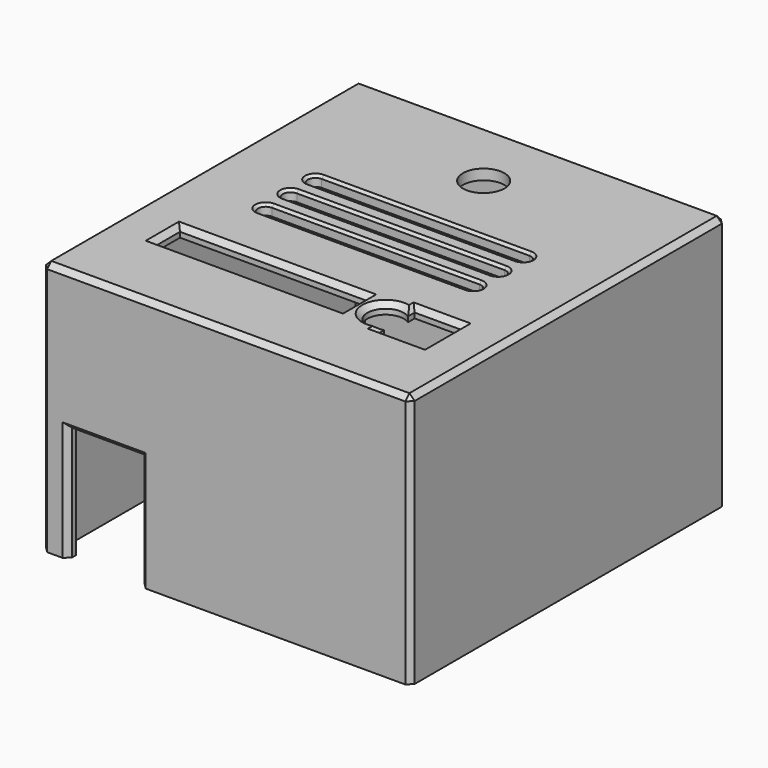
from build123d import *

# Parameters (mm, degrees)
SKETCH_W        = 71
SKETCH_H        = 76
PAD_DEPTH       = 49
SKETCH001_W     = 67
SKETCH001_H     = 72
POCKET_DEPTH    = 47
SKETCH002_W     = 14
SKETCH002_H     = 22
POCKET001_DEPTH = 2
SKETCH003_R     = 4
SKETCH003_W     = 36
SKETCH003_H     = 6
POCKET002_DEPTH = 49.001
CHAMFER_SIZE    = 1
POCKET003_DEPTH = 49.001
CHAMFER001_SIZE = 0.5


with BuildPart() as part:
    # Sketch → Pad (new body)
    with BuildSketch(Plane.XY):
        Rectangle(SKETCH_W, SKETCH_H)
    extrude(amount=PAD_DEPTH)

    # Sketch001 (on Face5 of Pad) → Pocket (cut)
    with BuildSketch(Plane(origin=(0, 0, 0), x_dir=(1, 0, 0), z_dir=(0, 0, -1))):
        Rectangle(SKETCH001_W, SKETCH001_H)
    extrude(amount=-POCKET_DEPTH, mode=Mode.SUBTRACT)

    # Sketch002 (on Face6 of Pocket) → Pocket001 (cut)
    with BuildSketch(Plane.XZ.offset(38)):
        with Locations((-23.5, 11)):
            Rectangle(SKETCH002_W, SKETCH002_H)
    extrude(amount=-POCKET001_DEPTH, mode=Mode.SUBTRACT)

    # Sketch003 (on Face4 of Pocket001) → Pocket002 (cut, through all)
    with BuildSketch(Plane.XY.offset(49)):
        with Locations((0, 24)):
            Circle(SKETCH003_R)
        with Locations((-8.5, -19)):
            Rectangle(SKETCH003_W, SKETCH003_H)
        with BuildLine():
            Line((26.5, -23.5), (17.5, -23.5))
            Line((17.5, -23.5), (17.5, -21.872281))
            ThreePointArc((17.5, -16.127719), (12, -19), (17.5, -21.872281))
            Line((17.5, -14.5), (17.5, -16.127719))
            Line((17.5, -14.5), (26.5, -14.5))
            Line((26.5, -14.5), (26.5, -23.5))
        make_face()
    extrude(amount=-POCKET002_DEPTH, mode=Mode.SUBTRACT)

    # Chamfer
    chamfer_edges = [part.edges().sort_by_distance(p)[0] for p in [
        (22, -23.5, 49),
        (12, -19, 49),
        (17.5, -22.686141, 49),
        (17.5, -15.313859, 49),
        (22, -14.5, 49),
        (26.5, -19, 49),
        (9.5, -19, 49),
        (-8.5, -22, 49),
        (-8.5, -16, 49),
        (-26.5, -19, 49),
        (0, 38, 49),
        (35.5, 0, 49),
        (0, -38, 49),
        (-35.5, 0, 49),
        (0, -36, 47),
        (33.5, 0, 47),
        (-33.5, 0, 47),
        (0, 36, 47),
        (-35.5, -38, 24.5),
        (-35.5, 38, 24.5),
        (35.5, -38, 24.5),
        (35.5, 38, 24.5),
        (33.5, -36, 23.5),
        (33.5, 36, 23.5),
        (-33.5, 36, 23.5),
        (-33.5, -36, 23.5),
        (-23.5, -38, 22),
        (-30.5, -38, 11),
        (-16.5, -38, 11),
    ]]
    chamfer(chamfer_edges, length=CHAMFER_SIZE)

    # Sketch004 (on Face25 of Chamfer) → Pocket003 (cut, through all)
    with BuildSketch(Plane.XY.offset(49)):
        with BuildLine():
            ThreePointArc((-20, 10), (-21.5, 8.5), (-20, 7))
            Line((-20, 7), (20, 7))
            ThreePointArc((20, 7), (21.5, 8.5), (20, 10))
            Line((-20, 10), (20, 10))
        make_face()
        with BuildLine():
            ThreePointArc((-20, 4), (-21.5, 2.5), (-20, 1))
            Line((-20, 1), (20, 1))
            ThreePointArc((20, 1), (21.5, 2.5), (20, 4))
            Line((-20, 4), (20, 4))
        make_face()
        with BuildLine():
            ThreePointArc((-20, -2), (-21.5, -3.5), (-20, -5))
            Line((-20, -5), (20, -5))
            ThreePointArc((20, -5), (21.5, -3.5), (20, -2))
            Line((-20, -2), (20, -2))
        make_face()
    extrude(amount=-POCKET003_DEPTH, mode=Mode.SUBTRACT)

    # Chamfer001
    chamfer001_edges = [part.edges().sort_by_distance(p)[0] for p in [
        (0, -5, 49),
        (0, 1, 49),
        (0, 7, 49),
    ]]
    chamfer(chamfer001_edges, length=CHAMFER001_SIZE)


solid = part.part
